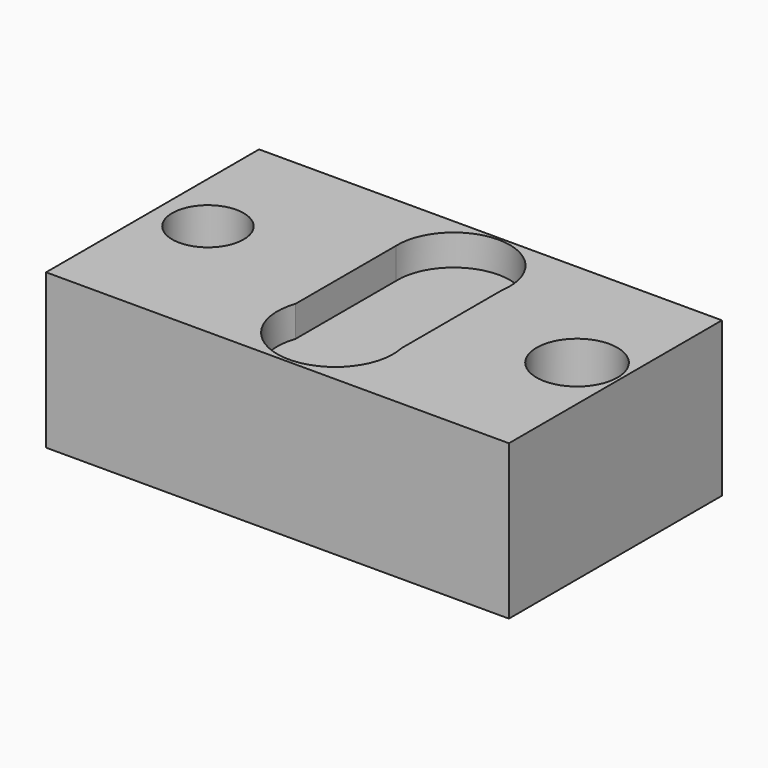
from build123d import *

# Parameters (mm, degrees)
F0_W     = 95.172987
F0_H     = 54.746762
F0_R     = 7.343592
F0_R_2   = 8.324151
F1_DEPTH = 31.75
F2_DEPTH = 25.4


with BuildPart() as f1:
    # F0 (on Top) → F1 (new body)
    with BuildSketch(Plane.XY):
        with Locations((0.648688, 3.280347)):
            Rectangle(F0_W, F0_H)
        with Locations((-36.638428, 4.635994)):
            Circle(F0_R, mode=Mode.SUBTRACT)
        with BuildLine():
            ThreePointArc((14.110626, -9.045969), (1.690867, -23.389814), (-8.814429, -7.58997))
            Line((-8.814429, -7.58997), (-8.814429, 18.146137))
            ThreePointArc((-8.814429, 18.146137), (3.397737, 30.129697), (14.110626, 16.788905))
            Line((14.110626, 16.788905), (14.110626, -9.045969))
        make_face(mode=Mode.SUBTRACT)
        with Locations((39.255768, 4.635994)):
            Circle(F0_R_2, mode=Mode.SUBTRACT)
    extrude(amount=F1_DEPTH)

    # F0 (on Top) → F2 (join)
    with BuildSketch(Plane.XY):
        with BuildLine():
            Line((-8.814429, 18.146137), (-8.814429, -7.58997))
            ThreePointArc((-8.814429, -7.58997), (1.690867, -23.389814), (14.110626, -9.045969))
            Line((14.110626, -9.045969), (14.110626, 16.788905))
            ThreePointArc((14.110626, 16.788905), (3.397737, 30.129697), (-8.814429, 18.146137))
        make_face()
    extrude(amount=F2_DEPTH)


solid = f1.part
